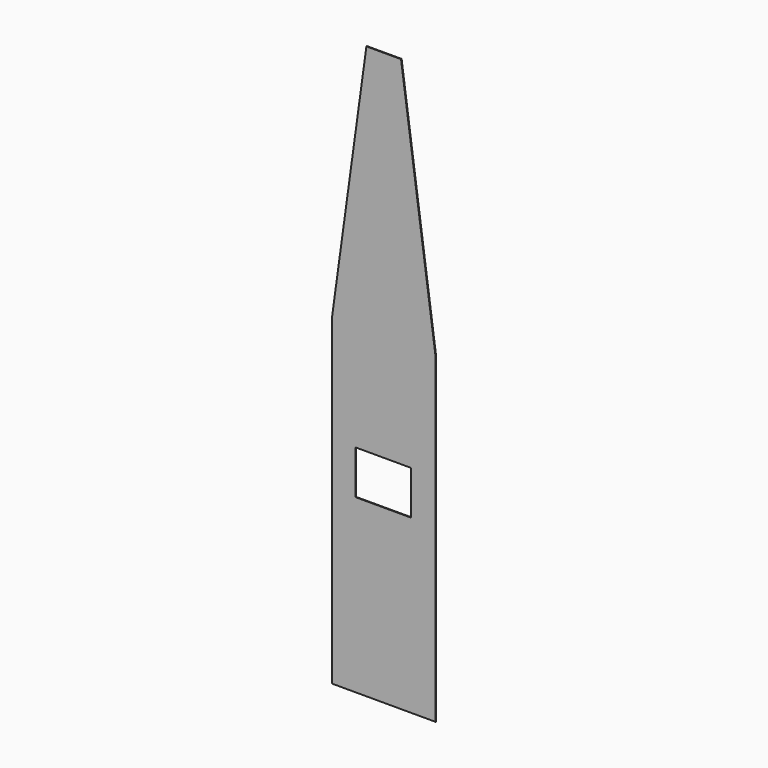
from build123d import *

# Parameters (mm, degrees)
F0_W     = 30
F0_H     = 170
F0_W_2   = 10
F0_W_3   = 70
F0_W_4   = 150
F0_H_2   = 10
F0_H_3   = 51.8
F1_DEPTH = 1


with BuildPart() as f1:
    # F0 (on Front) → F1 (new body)
    with BuildSketch(Plane.XZ):
        with Locations((15, 85)):
            Rectangle(F0_W, F0_H)
        with Locations((35, 85)):
            Rectangle(F0_W_2, F0_H)
        Polygon((0, 217.1), (0, 170), (30, 170), (40, 170), (110, 170), (120, 170), (150, 170), (150, 217.1), align=None)
        with Locations((75, 85)):
            Rectangle(F0_W_3, F0_H)
        with Locations((75, 222.1)):
            Rectangle(F0_W_4, F0_H_2)
        with Locations((115, 85)):
            Rectangle(F0_W_2, F0_H)
        Polygon((0, 274.2), (0, 227.1), (150, 227.1), (150, 274.2), (114.395918, 274.2), (114.395918, 247.95), (34.395918, 247.95), (34.395918, 274.2), align=None)
        with Locations((135, 85)):
            Rectangle(F0_W, F0_H)
        Polygon((0, 411.2), (0, 274.2), (34.395918, 274.2), (34.395918, 311.2), (114.395918, 311.2), (114.395918, 274.2), (150, 274.2), (150, 411.2), align=None)
        with Locations((75, 437.1)):
            Rectangle(F0_W_4, F0_H_3)
        Polygon((26.736494, 657), (0, 463), (150, 463), (123.263506, 657), align=None)
        Polygon((33.875413, 708.8), (26.736494, 657), (123.263506, 657), (116.124587, 708.8), align=None)
        Polygon((50, 825.8), (33.875413, 708.8), (116.124587, 708.8), (100, 825.8), (75, 825.8), align=None)
    extrude(amount=F1_DEPTH)


solid = f1.part
